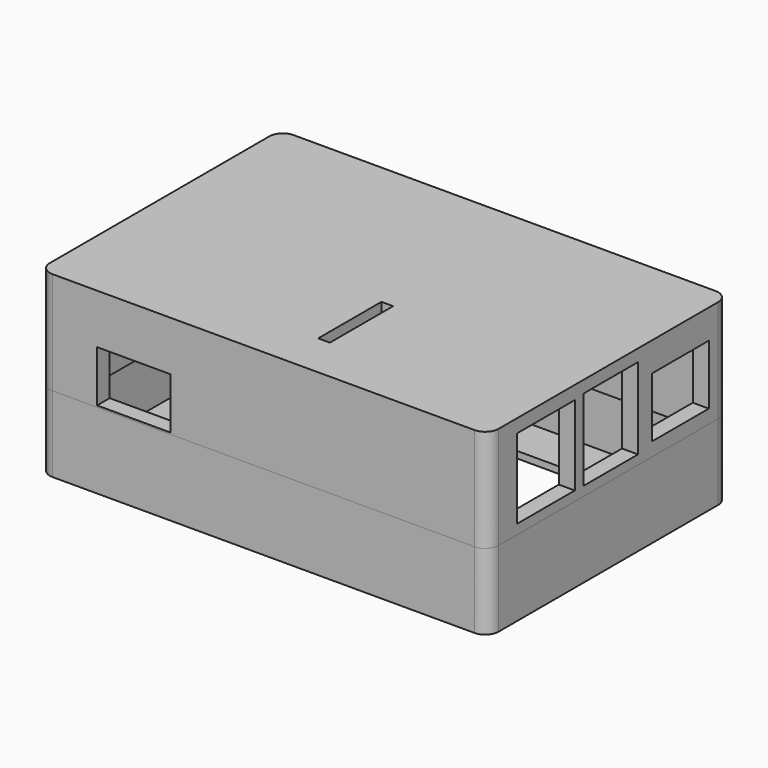
from build123d import *

# Parameters (mm, degrees)
SKETCH_W        = 100.50959
SKETCH_H        = 67.468834
PAD_DEPTH       = 17
SKETCH001_W     = 96.2
SKETCH001_H     = 63.8
POCKET_DEPTH    = 15.5
SKETCH002_W     = 75
SKETCH002_H     = 45
POCKET001_DEPTH = 1.5
FILLET_R        = 3
SKETCH003_W     = 100.50959
SKETCH003_H     = 67.468834
PAD001_DEPTH    = 23
SKETCH004_W     = 96.199996
SKETCH004_H     = 63.8
PAD002_DEPTH    = 3
SKETCH005_W     = 93.345444
SKETCH005_H     = 60.42936
POCKET002_DEPTH = 23
SKETCH006_W     = 16.188404
SKETCH006_H     = 17.830702
SKETCH006_W_2   = 15.311111
SKETCH006_H_2   = 18.199926
SKETCH006_W_3   = 15.951146
SKETCH006_H_3   = 13.401236
POCKET003_DEPTH = 5
SKETCH007_W     = 16.44502
SKETCH007_H     = 11.491716
POCKET004_DEPTH = 5
SKETCH008_W     = 2.618509
SKETCH008_H     = 17.713563
POCKET005_DEPTH = 5
FILLET001_R     = 3


with BuildPart() as body:
    # Sketch → Pad (new body)
    with BuildSketch(Plane.XY):
        Rectangle(SKETCH_W, SKETCH_H)
    extrude(amount=PAD_DEPTH)

    # Sketch001 (on Face6 of Pad) → Pocket (cut)
    with BuildSketch(Plane.XY.offset(17)):
        Rectangle(SKETCH001_W, SKETCH001_H)
    extrude(amount=-POCKET_DEPTH, mode=Mode.SUBTRACT)

    # Sketch002 (on Face11 of Pocket) → Pocket001 (cut)
    with BuildSketch(Plane.XY.offset(1.5)):
        Rectangle(SKETCH002_W, SKETCH002_H)
    extrude(amount=-POCKET001_DEPTH, mode=Mode.SUBTRACT)

    # Fillet
    fillet_edges = [body.edges().sort_by_distance(p)[0] for p in [
        (50.254795, -33.734417, 8.5),
        (50.254795, 33.734417, 8.5),
        (-50.254795, 33.734417, 8.5),
        (-50.254795, -33.734417, 8.5),
    ]]
    fillet(fillet_edges, radius=FILLET_R)


with BuildPart() as body001:
    # Sketch003 (on ShapeBinder) → Pad001 (new body)
    with BuildSketch(Plane.XY.offset(17)):
        Rectangle(SKETCH003_W, SKETCH003_H)
    extrude(amount=PAD001_DEPTH)

    # Sketch004 (on Face5 of Pad001) → Pad002 (join)
    with BuildSketch(Plane(origin=(0, 0, 17), x_dir=(1, 0, 0), z_dir=(0, 0, -1))):
        Rectangle(SKETCH004_W, SKETCH004_H)
    extrude(amount=PAD002_DEPTH)

    # Sketch005 (on Face11 of Pad002) → Pocket002 (cut)
    with BuildSketch(Plane(origin=(0, 0, 14), x_dir=(1, 0, 0), z_dir=(0, 0, -1))):
        Rectangle(SKETCH005_W, SKETCH005_H)
    extrude(amount=-POCKET002_DEPTH, mode=Mode.SUBTRACT)

    # Sketch006 (on Face3 of Pocket002) → Pocket003 (cut)
    with BuildSketch(Plane.YZ.offset(50.254795)):
        with Locations((-17.506884, 28.087621)):
            Rectangle(SKETCH006_W, SKETCH006_H)
        with Locations((0.628194, 28.191151)):
            Rectangle(SKETCH006_W_2, SKETCH006_H_2)
        with Locations((20.128593, 26.765775)):
            Rectangle(SKETCH006_W_3, SKETCH006_H_3)
    extrude(amount=-POCKET003_DEPTH, mode=Mode.SUBTRACT)

    # Sketch007 (on Face6 of Pocket003) → Pocket004 (cut)
    with BuildSketch(Plane.XZ.offset(33.734417)):
        with Locations((-29.040969, 23.119344)):
            Rectangle(SKETCH007_W, SKETCH007_H)
    extrude(amount=-POCKET004_DEPTH, mode=Mode.SUBTRACT)

    # Sketch008 (on Face5 of Pocket004) → Pocket005 (cut)
    with BuildSketch(Plane.XY.offset(40)):
        with Locations((5.519099, -14.836051)):
            Rectangle(SKETCH008_W, SKETCH008_H)
    extrude(amount=-POCKET005_DEPTH, mode=Mode.SUBTRACT)

    # Fillet001
    fillet001_edges = [body001.edges().sort_by_distance(p)[0] for p in [
        (50.254795, 33.734417, 28.5),
        (50.254795, -33.734417, 28.5),
        (-50.254795, -33.734417, 28.5),
        (-50.254795, 33.734417, 28.5),
    ]]
    fillet(fillet001_edges, radius=FILLET001_R)


solid = Compound([body.part, body001.part])
